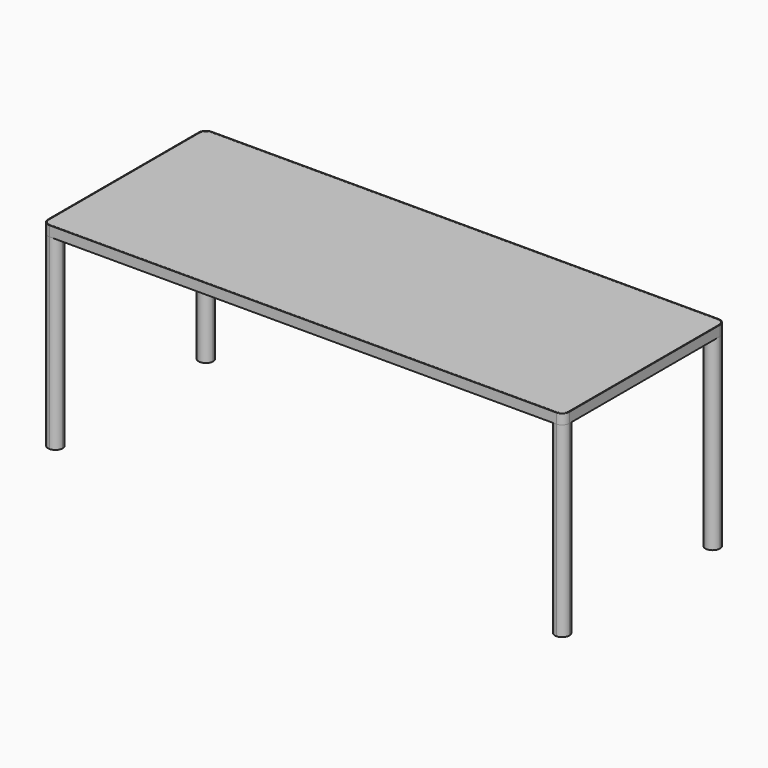
from build123d import *

# Parameters (mm, degrees)
F1_DEPTH  = 35
F3_DEPTH  = 4
F5_W      = 1724
F5_H      = 624
F6_DEPTH  = 25
F8_W      = 25
F8_H      = 25
F9_DEPTH  = 650
F11_R     = 23.5
F12_DEPTH = 645
F15_DEPTH = 25


with BuildPart() as f1:
    # F0 (on Top) → F1 (new body)
    with BuildSketch(Plane.XY):
        with BuildLine():
            ThreePointArc((900, 325), (892.6776695297, 342.6776695297), (875, 350))
            Line((875, 350), (-850, 350))
            Line((-850, 350), (-875, 350))
            ThreePointArc((-875, 350), (-892.6776695297, 342.6776695297), (-900, 325))
            Line((-900, 325), (-900, 300))
            Line((-900, 300), (-900, -325))
            ThreePointArc((-900, -325), (-892.6776695297, -342.6776695297), (-875, -350))
            Line((-875, -350), (875, -350))
            ThreePointArc((875, -350), (892.6776695297, -342.6776695297), (900, -325))
            Line((900, -325), (900, 325))
        make_face()
        with BuildLine():
            Line((-898.5, -325), (-898.5, 300))
            Line((-898.5, 300), (-898.5, 325))
            ThreePointArc((-898.5, 325), (-891.6170093579, 341.6170093579), (-875, 348.5))
            Line((-875, 348.5), (875, 348.5))
            ThreePointArc((875, 348.5), (891.6170093579, 341.6170093579), (898.5, 325))
            Line((898.5, 325), (898.5, -325))
            ThreePointArc((898.5, -325), (891.6170093579, -341.6170093579), (875, -348.5))
            Line((875, -348.5), (-875, -348.5))
            ThreePointArc((-875, -348.5), (-891.6170093579, -341.6170093579), (-898.5, -325))
        make_face(mode=Mode.SUBTRACT)
    extrude(amount=-F1_DEPTH)


with BuildPart() as f3:
    # F2 (on Top) → F3 (new body)
    with BuildSketch(Plane.XY):
        with BuildLine():
            Line((-875, -347.5), (875, -347.5))
            ThreePointArc((875, -347.5), (890.9099025767, -340.9099025767), (897.5, -325))
            Line((897.5, -325), (897.5, 325))
            ThreePointArc((897.5, 325), (890.9099025767, 340.9099025767), (875, 347.5))
            Line((875, 347.5), (-875, 347.5))
            ThreePointArc((-875, 347.5), (-890.9099025767, 340.9099025767), (-897.5, 325))
            Line((-897.5, 325), (-897.5, -325))
            ThreePointArc((-897.5, -325), (-890.9099025767, -340.9099025767), (-875, -347.5))
        make_face()
    extrude(amount=-F3_DEPTH)


with BuildPart() as f6:
    # F5 (on offset) → F6 (new body)
    with BuildSketch(Plane(origin=(0, 0, -32), x_dir=(1, 0, 0), z_dir=(0, 0, -1))):
        Polygon((-887, -337), (-875, -337), (887, -337), (887, 337), (-875, 337), (-887, 337), (-887, 325), (-887, -325), align=None)
        Rectangle(F5_W, F5_H, mode=Mode.SUBTRACT)
    extrude(amount=-F6_DEPTH)

    # F8 (on face) → F9 (join)
    with BuildSketch(Plane(origin=(0, 0, -32), x_dir=(1, 0, 0), z_dir=(0, 0, -1))):
        with Locations((-874.5, -324.5)):
            Rectangle(F8_W, F8_H)
        with Locations((-874.5, 324.5)):
            Rectangle(F8_W, F8_H)
        with Locations((874.5, 324.5)):
            Rectangle(F8_W, F8_H)
        with Locations((874.5, -324.5)):
            Rectangle(F8_W, F8_H)
    extrude(amount=F9_DEPTH)

    # F14 (on offset) → F15 (join)
    with BuildSketch(Plane(origin=(0, 0, -32), x_dir=(1, 0, 0), z_dir=(0, 0, -1))):
        Polygon((-862, 12.5), (-862, -12.5), (-12.5, -12.5), (-12.5, -312), (12.5, -312), (12.5, -12.5), (862, -12.5), (862, 12.5), (12.5, 12.5), (12.5, 312), (-12.5, 312), (-12.5, 12.5), align=None)
    extrude(amount=-F15_DEPTH)


with BuildPart() as f12:
    # F11 (on offset) → F12 (new body)
    with BuildSketch(Plane(origin=(0, 0, -35), x_dir=(1, 0, 0), z_dir=(0, 0, -1))):
        with BuildLine():
            ThreePointArc((-900, -325), (-892.6776695297, -342.6776695297), (-875, -350))
            ThreePointArc((-875, -350), (-857.3223304703, -342.6776695297), (-850, -325))
            ThreePointArc((-850, -325), (-875, -300), (-900, -325))
        make_face()
        with Locations((-875, -325)):
            Circle(F11_R, mode=Mode.SUBTRACT)
    extrude(amount=F12_DEPTH)


with BuildPart() as f12b:
    # F11 (on offset) → F12, piece 2 (new body)
    with BuildSketch(Plane(origin=(0, 0, -35), x_dir=(1, 0, 0), z_dir=(0, 0, -1))):
        with BuildLine():
            ThreePointArc((900, -325), (857.3223304703, -307.3223304703), (875, -350))
            ThreePointArc((875, -350), (892.6776695297, -342.6776695297), (900, -325))
        make_face()
        with Locations((875, -325)):
            Circle(F11_R, mode=Mode.SUBTRACT)
    extrude(amount=F12_DEPTH)


with BuildPart() as f12c:
    # F11 (on offset) → F12, piece 3 (new body)
    with BuildSketch(Plane(origin=(0, 0, -35), x_dir=(1, 0, 0), z_dir=(0, 0, -1))):
        with BuildLine():
            ThreePointArc((-850, 325), (-857.3223304703, 342.6776695297), (-875, 350))
            ThreePointArc((-875, 350), (-892.6776695297, 342.6776695297), (-900, 325))
            ThreePointArc((-900, 325), (-875, 300), (-850, 325))
        make_face()
        with Locations((-875, 325)):
            Circle(F11_R, mode=Mode.SUBTRACT)
    extrude(amount=F12_DEPTH)


with BuildPart() as f12d:
    # F11 (on offset) → F12, piece 4 (new body)
    with BuildSketch(Plane(origin=(0, 0, -35), x_dir=(1, 0, 0), z_dir=(0, 0, -1))):
        with BuildLine():
            ThreePointArc((900, 325), (892.6776695297, 342.6776695297), (875, 350))
            ThreePointArc((875, 350), (857.3223304703, 307.3223304703), (900, 325))
        make_face()
        with Locations((875, 325)):
            Circle(F11_R, mode=Mode.SUBTRACT)
    extrude(amount=F12_DEPTH)


solid = Compound([f1.part, f3.part, f6.part, f12.part, f12b.part, f12c.part, f12d.part])
